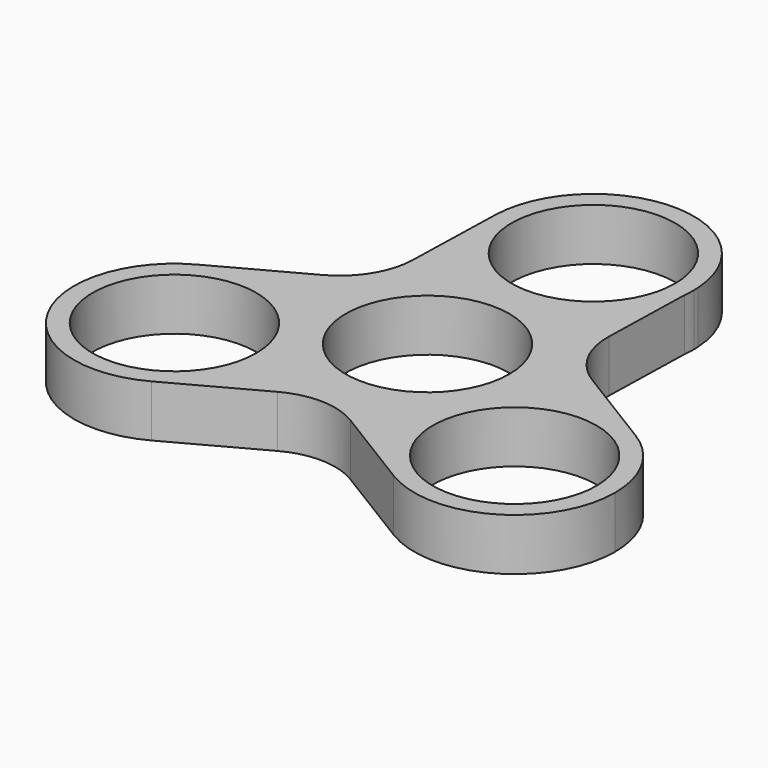
from build123d import *

# Parameters (mm, degrees)
F0_R     = 11
F1_DEPTH = 7
F2_R     = 10


with BuildPart() as f1:
    # F0 (on Top) → F1 (new body)
    with BuildSketch(Plane.XY):
        with BuildLine():
            ThreePointArc((-10.234120287, 6.5740694147), (-9.8668934034, 3.0690473486), (-8.6050130448, -0.2214986893))
            ThreePointArc((-8.6050130448, -0.2214986893), (-6.5344740582, -3.0733236617), (-3.7963803359, -5.2920801007))
            ThreePointArc((-3.7963803359, -5.2920801007), (2.9033081969, -7.2790159034), (9.6988765651, -5.6499085178))
            ThreePointArc((9.6988765651, -5.6499085178), (12.5507016971, -3.5793692726), (14.7694581659, -0.8412752126))
            ThreePointArc((14.7694581659, -0.8412752126), (16.2071424856, 2.3885874121), (16.7569724061, 5.8809556395))
            ThreePointArc((16.7569724061, 5.8809556395), (16.7600955219, 6.0485853893), (16.761136614, 6.2162409976))
            ThreePointArc((16.761136614, 6.2162409976), (15.0409175717, 12.8106902231), (10.3186535639, 17.7245620959))
            ThreePointArc((10.3186535639, 17.7245620959), (7.0996017326, 19.1590453897), (3.6189648321, 19.7114979038))
            ThreePointArc((3.6189648321, 19.7114979038), (0.1139427221, 19.3442709567), (-3.1766033371, 18.082390513))
            ThreePointArc((-3.1766033371, 18.082390513), (-8.2471844843, 13.2737579475), (-10.234120287, 6.5740694147))
        make_face()
        with Locations((3.261136614, 6.2162409976)):
            Circle(F0_R, mode=Mode.SUBTRACT)
        with BuildLine():
            ThreePointArc((-8.6050130448, -0.2214986893), (-16.6326973469, 6.283565502), (-26.9089023679, 5.2069106108))
            ThreePointArc((-26.9089023679, 5.2069106108), (-32.3373119323, -13.0969788557), (-14.0334224658, -18.52538842))
            ThreePointArc((-14.0334224658, -18.52538842), (-8.8703113847, -13.5636038522), (-6.9711624169, -6.6592389046))
            ThreePointArc((-6.9711624169, -6.6592389046), (-7.3859987472, -3.3383216008), (-8.6050130448, -0.2214986893))
        make_face()
        with Locations((-20.4711624169, -6.6592389046)):
            Circle(F0_R, mode=Mode.SUBTRACT)
        with BuildLine():
            ThreePointArc((14.7694581659, -0.8412752126), (13.1497487271, -11.0459862754), (19.2202618607, -19.4071140005))
            ThreePointArc((19.2202618607, -19.4071140005), (32.8722280361, -19.67857386), (39.7777788106, -7.8987929022))
            ThreePointArc((39.7777788106, -7.8987929022), (38.0575597683, -1.3043436767), (33.3352957605, 3.6095281961))
            ThreePointArc((33.3352957605, 3.6095281961), (23.1305854375, 5.2292371812), (14.7694581659, -0.8412752126))
        make_face()
        with Locations((26.2777788106, -7.8987929022)):
            Circle(F0_R, mode=Mode.SUBTRACT)
        with BuildLine():
            Line((-10.0275279541, 14.3655596193), (-26.9089023679, 5.2069106108))
            ThreePointArc((-26.9089023679, 5.2069106108), (-16.6326973469, 6.283565502), (-8.6050130448, -0.2214986893))
            ThreePointArc((-8.6050130448, -0.2214986893), (-9.8668934034, 3.0690473486), (-10.234120287, 6.5740694147))
            Line((-10.234120287, 6.5740694147), (-10.0275279541, 14.3655596193))
        make_face()
        with BuildLine():
            ThreePointArc((-6.9711624169, -6.6592389046), (-8.8703113847, -13.5636038522), (-14.0334224658, -18.52538842))
            Line((-14.0334224658, -18.52538842), (2.8479519481, -9.3667394116))
            Line((2.8479519481, -9.3667394116), (-3.7963803359, -5.2920801007))
            ThreePointArc((-3.7963803359, -5.2920801007), (-6.5344740582, -3.0733236617), (-8.6050130448, -0.2214986893))
            ThreePointArc((-8.6050130448, -0.2214986893), (-7.3859987472, -3.3383216008), (-6.9711624169, -6.6592389046))
        make_face()
        with BuildLine():
            ThreePointArc((17.4549259161, 33.9748336869), (3.7714895913, 46.7051936103), (-9.5184634528, 33.5645832167))
            ThreePointArc((-9.5184634528, 33.5645832167), (-5.8188171891, 23.9171901035), (3.6189648321, 19.7114979038))
            ThreePointArc((3.6189648321, 19.7114979038), (12.8667322178, 23.0470801654), (17.4001584574, 31.7703454469))
            Line((17.4001584574, 31.7703454469), (17.4549259161, 33.9748336869))
        make_face()
        with Locations((3.9767934482, 33.2067547996)):
            Circle(F0_R, mode=Mode.SUBTRACT)
        with BuildLine():
            Line((-9.5184634528, 33.5645832167), (-10.0275279541, 14.3655596193))
            Line((-10.0275279541, 14.3655596193), (-3.1766033371, 18.082390513))
            ThreePointArc((-3.1766033371, 18.082390513), (0.1139427221, 19.3442709567), (3.6189648321, 19.7114979038))
            ThreePointArc((3.6189648321, 19.7114979038), (-5.8188171891, 23.9171901035), (-9.5184634528, 33.5645832167))
        make_face()
        with BuildLine():
            ThreePointArc((17.4001584574, 31.7703454469), (12.8667322178, 23.0470801654), (3.6189648321, 19.7114979038))
            ThreePointArc((3.6189648321, 19.7114979038), (7.0996017326, 19.1590453897), (10.3186535639, 17.7245620959))
            Line((10.3186535639, 17.7245620959), (16.9501763024, 13.6577582823))
            Line((16.9501763024, 13.6577582823), (17.4001584574, 31.7703454469))
        make_face()
        with BuildLine():
            ThreePointArc((16.7569724061, 5.8809556395), (16.2071424856, 2.3885874121), (14.7694581659, -0.8412752126))
            ThreePointArc((14.7694581659, -0.8412752126), (23.1305854375, 5.2292371812), (33.3352957605, 3.6095281961))
            Line((33.3352957605, 3.6095281961), (16.9501763024, 13.6577582823))
            Line((16.9501763024, 13.6577582823), (16.7569724061, 5.8809556395))
        make_face()
        with BuildLine():
            Line((9.6988765651, -5.6499085178), (2.8479519481, -9.3667394116))
            Line((2.8479519481, -9.3667394116), (19.2202618607, -19.4071140005))
            ThreePointArc((19.2202618607, -19.4071140005), (13.1497487271, -11.0459862754), (14.7694581659, -0.8412752126))
            ThreePointArc((14.7694581659, -0.8412752126), (12.5507016971, -3.5793692726), (9.6988765651, -5.6499085178))
        make_face()
        with BuildLine():
            Line((-3.1766033371, 18.082390513), (-10.0275279541, 14.3655596193))
            Line((-10.0275279541, 14.3655596193), (-10.234120287, 6.5740694147))
            ThreePointArc((-10.234120287, 6.5740694147), (-8.2471844843, 13.2737579475), (-3.1766033371, 18.082390513))
        make_face()
        with BuildLine():
            Line((-3.7963803359, -5.2920801007), (2.8479519481, -9.3667394116))
            Line((2.8479519481, -9.3667394116), (9.6988765651, -5.6499085178))
            ThreePointArc((9.6988765651, -5.6499085178), (2.9033081969, -7.2790159034), (-3.7963803359, -5.2920801007))
        make_face()
        with BuildLine():
            Line((16.9501763024, 13.6577582823), (10.3186535639, 17.7245620959))
            ThreePointArc((10.3186535639, 17.7245620959), (15.0409175717, 12.8106902231), (16.761136614, 6.2162409976))
            ThreePointArc((16.761136614, 6.2162409976), (16.7600955219, 6.0485853893), (16.7569724061, 5.8809556395))
            Line((16.7569724061, 5.8809556395), (16.9501763024, 13.6577582823))
        make_face()
        with BuildLine():
            ThreePointArc((17.4767934482, 33.2067547996), (17.4713254578, 33.5909498562), (17.4549259161, 33.9748336869))
            Line((17.4549259161, 33.9748336869), (17.4001584574, 31.7703454469))
            ThreePointArc((17.4001584574, 31.7703454469), (17.4576210864, 32.4875286963), (17.4767934482, 33.2067547996))
        make_face()
    extrude(amount=F1_DEPTH)

    # F2
    f2_edges = [f1.edges().sort_by_distance(p)[0] for p in [
        (-10.027528, 14.36556, 3.5),
        (16.950176, 13.657758, 3.5),
        (2.847952, -9.366739, 3.5),
    ]]
    fillet(f2_edges, radius=F2_R)


solid = f1.part
